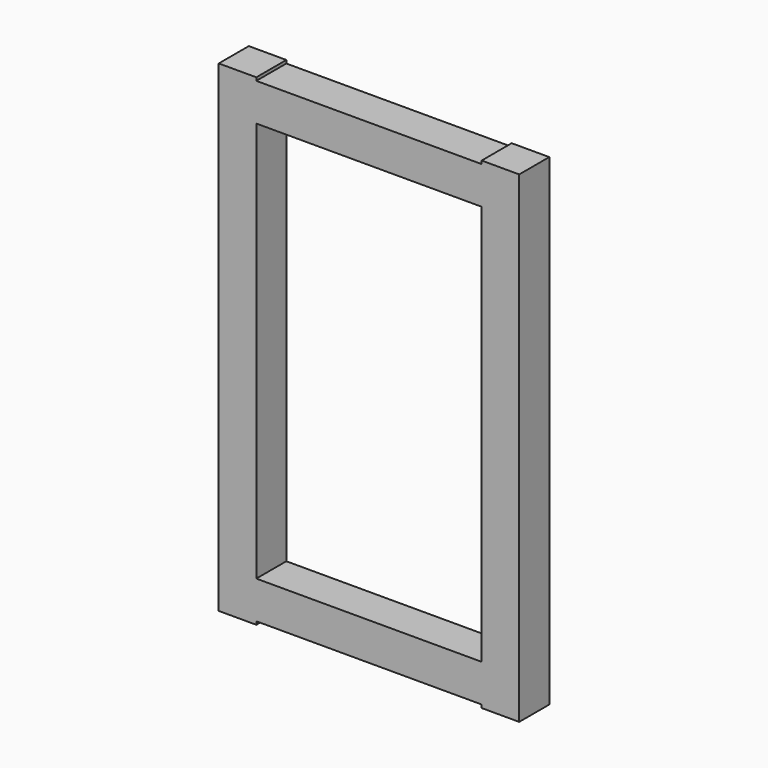
from build123d import *

# Parameters (mm, degrees)
F0_W      = 457.2
F0_H      = 76.2
F1_DEPTH  = 76.2
F1_FACE_W = 76.2
F1_FACE_H = 76.2
F2_DEPTH  = 152.4
F3_W      = 76.2
F3_H      = 76.2
F4_DEPTH  = 895.35
F5_W      = 76.2
F5_H      = 76.2
F11_DEPTH = 6.35
F6_W      = 76.2
F6_H      = 76.2
F7_DEPTH  = 533.4
F8_W      = 76.2
F8_H      = 76.2
F12_DEPTH = 895.35
F9_W      = 76.2
F9_H      = 76.2
F10_DEPTH = 6.35


with BuildPart() as f1:
    # F0 (on Top) → F1 (new body)
    with BuildSketch(Plane.XY):
        with Locations((4.465946, 3.0175)):
            Rectangle(F0_W, F0_H)
    extrude(amount=F1_DEPTH)

    # F1_face (on face) → F2 (join)
    with BuildSketch(Plane(origin=(233.065946, 3.0175, 38.1), x_dir=(0, 1, 0), z_dir=(1, 0, 0))):
        Rectangle(F1_FACE_W, F1_FACE_H)
    extrude(amount=F2_DEPTH)

    # F3 (on face) → F4 (join)
    with BuildSketch(Plane.XY.offset(76.2)):
        with Locations((347.365946, 3.0175)):
            Rectangle(F3_W, F3_H)
    extrude(amount=F4_DEPTH)

    # F5 (on face) → F11 (join)
    with BuildSketch(Plane(origin=(0, 0, 0), x_dir=(1, 0, 0), z_dir=(0, 0, -1))):
        with Locations((347.365946, -3.0175)):
            Rectangle(F5_W, F5_H)
    extrude(amount=F11_DEPTH)

    # F6 (on face) → F7 (join)
    with BuildSketch(Plane(origin=(309.265946, 0, 0), x_dir=(0, -1, 0), z_dir=(-1, 0, 0))):
        with Locations((-3.0175, 927.1)):
            Rectangle(F6_W, F6_H)
    extrude(amount=F7_DEPTH)

    # F8 (on face) → F12 (join)
    with BuildSketch(Plane(origin=(0, 0, 889), x_dir=(1, 0, 0), z_dir=(0, 0, -1))):
        with Locations((-186.034054, -3.0175)):
            Rectangle(F8_W, F8_H)
    extrude(amount=F12_DEPTH)

    # F9 (on face) → F10 (join)
    with BuildSketch(Plane.XY.offset(965.2)):
        with Locations((-186.034054, 3.0175)):
            Rectangle(F9_W, F9_H)
    extrude(amount=F10_DEPTH)


solid = f1.part
